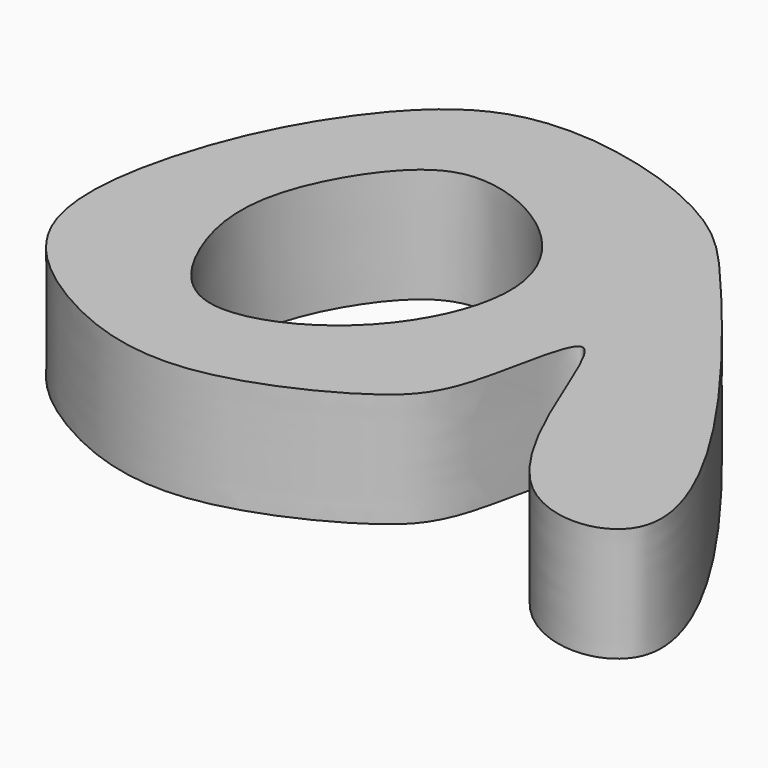
from build123d import *

# Parameters (mm, degrees)
F1_DEPTH = 5


with BuildPart() as f1:
    # F0 (on Top) → F1 (new body)
    with BuildSketch(Plane.XY):
        with BuildLine():
            add(Edge.make_bspline(
                [(-33.3487056196, 34.8278842866), (-35.2161622165, 37.081292689), (-36.8811079259, 38.9091765763), (-41.902154689, 41.043087353), (-47.9120114097, 41.5341864818), (-51.9749041226, 37.3068816136), (-54.6224247091, 31.8128094877), (-55.705440291, 24.4709483429), (-50.3963745838, 20.1625628078), (-44.4798439916, 18.3787886554), (-37.8771613234, 21.482870886), (-35.8156643732, 23.8547715623), (-34.8066043334, 33.1139400856), (-31.3512156054, 17.7010641812), (-20.5382831192, 18.9386839011), (-30.1143754203, 30.9251071838), (-33.3487056196, 34.8278842866)],
                knots=[0, 0, 0, 0, 0.0672586505, 0.1298730597, 0.196792887, 0.2618536485, 0.3322814802, 0.4053261764, 0.4747906245, 0.5441530965, 0.6167264891, 0.6705829693, 0.7303720184, 0.821508334, 0.8835117857, 1, 1, 1, 1], degree=3))
        make_face()
        with BuildLine():
            add(Edge.make_bspline(
                [(-45.4510599375, 36.4415310323), (-44.308008339, 36.5142877903), (-41.3161892442, 35.4241979283), (-38.2645058795, 31.1097989042), (-40.981904853, 24.8667927703), (-47.0875277776, 22.3926560797), (-49.8199196257, 26.4998988014), (-50.574156988, 30.7985839956), (-48.1385786896, 35.2843504089), (-46.4023088961, 36.3809827681), (-45.4510599375, 36.4415310323)],
                knots=[0, 0, 0, 0, 0.1181731206, 0.2463621639, 0.3928623701, 0.5307789933, 0.6489520917, 0.7720254143, 0.9016561824, 1, 1, 1, 1], degree=3))
        make_face(mode=Mode.SUBTRACT)
    extrude(amount=F1_DEPTH)


solid = f1.part
